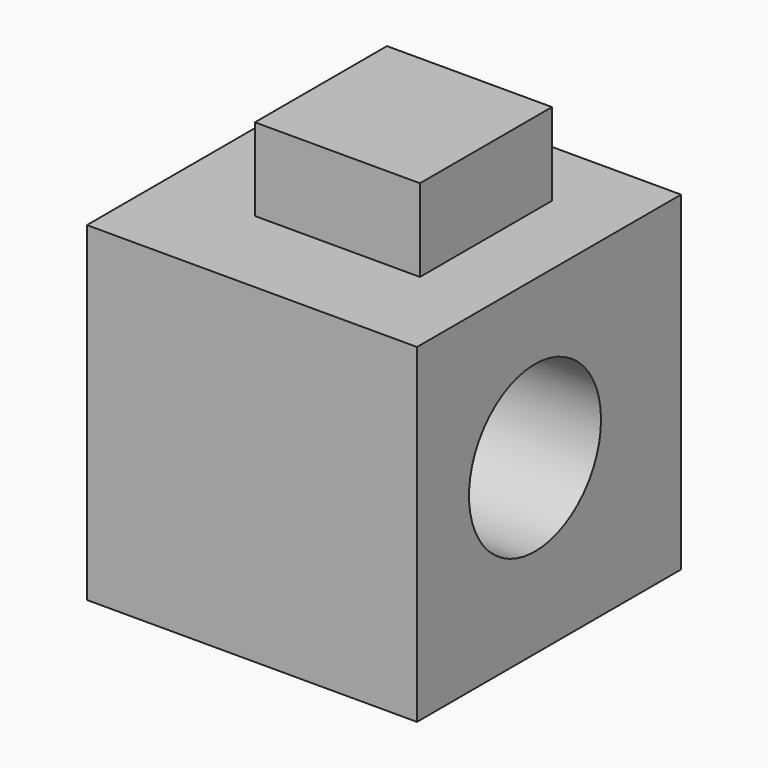
from build123d import *

# Parameters (mm, degrees)
F0_W     = 50.8
F0_H     = 50.8
F1_DEPTH = 50.8
F3_R     = 12.7
F4_DEPTH = 12.7
F5_R     = 12.7
F6_DEPTH = 50.8
F7_W     = 25.4
F7_H     = 25.4
F8_DEPTH = 12.7


with BuildPart() as f1:
    # F0 (on Top) → F1 (new body)
    with BuildSketch(Plane.XY):
        with Locations((-29.785895, 48.887423)):
            Rectangle(F0_W, F0_H)
    extrude(amount=F1_DEPTH)

    # F3 (on face) → F4 (join)
    with BuildSketch(Plane(origin=(0, 74.287423, 0), x_dir=(-1, 0, 0), z_dir=(0, 1, 0))):
        with Locations((29.030669, 24.522984)):
            Circle(F3_R)
    extrude(amount=F4_DEPTH)

    # F5 (on face) → F6 (cut)
    with BuildSketch(Plane.YZ.offset(-4.385895)):
        with Locations((46.190321, 26.564747)):
            Circle(F5_R)
    extrude(amount=-F6_DEPTH, mode=Mode.SUBTRACT)

    # F7 (on face) → F8 (join)
    with BuildSketch(Plane.XY.offset(50.8)):
        with Locations((-28.19174, 50.638956)):
            Rectangle(F7_W, F7_H)
    extrude(amount=F8_DEPTH)


solid = f1.part
